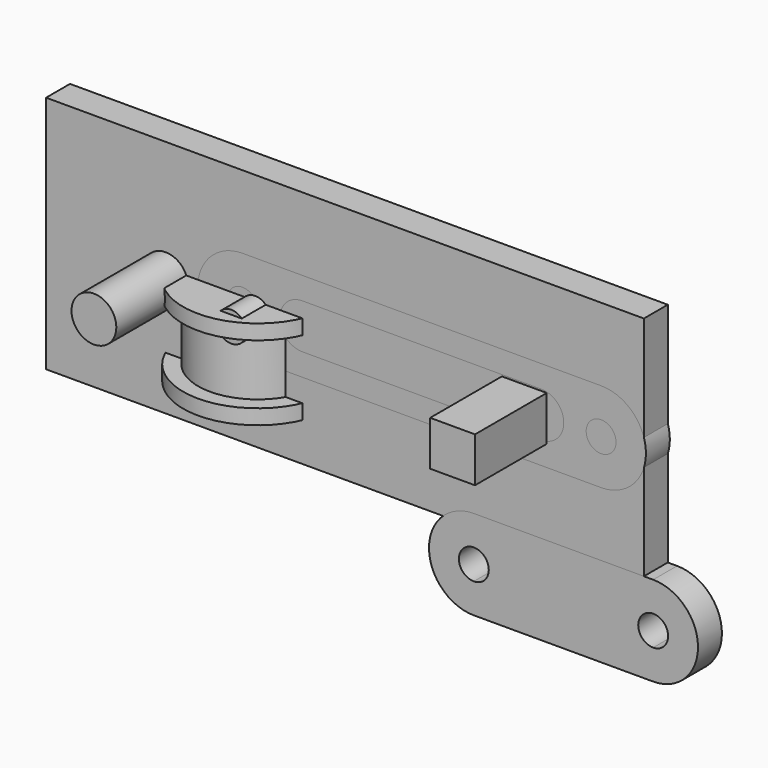
from build123d import *

# Parameters (mm, degrees)
F0_W      = 127
F0_H      = 50.8
F0_R      = 4.7625
F1_DEPTH  = 6.35
F2_DEPTH  = 25.4
F4_DEPTH  = 6.35
F6_DEPTH  = 6.35
F7_R      = 3.175
F8_DEPTH  = 12.7
F9_W      = 7.9375
F9_H      = 12.7
F11_R     = 3.175
F12_DEPTH = 6.35


with BuildPart() as f1:
    # F0 (on Front) → F1 (new body)
    with BuildSketch(Plane.XZ):
        with Locations((-22.645993565, 26.2049915612)):
            Rectangle(F0_W, F0_H)
        with Locations((-60.745993565, 26.2049915612)):
            Circle(F0_R, mode=Mode.SUBTRACT)
        Polygon((10.691506435, 21.4424915612), (10.691506435, 30.9674915612), (20.216506435, 30.9674915612), (20.216506435, 26.2049915612), (20.216506435, 21.4424915612), (15.454006435, 21.4424915612), align=None, mode=Mode.SUBTRACT)
    extrude(amount=F1_DEPTH)

    # F0 (on Front) → F2 (join)
    with BuildSketch(Plane.XZ):
        with Locations((-60.745993565, 26.2049915612)):
            Circle(F0_R)
        Polygon((20.216506435, 30.9674915612), (10.691506435, 30.9674915612), (10.691506435, 21.4424915612), (15.454006435, 21.4424915612), (20.216506435, 21.4424915612), (20.216506435, 26.2049915612), align=None)
    extrude(amount=F2_DEPTH)


with BuildPart() as f4:
    # F3 (on Front) → F4 (new body)
    with BuildSketch(Plane.XZ):
        with BuildLine():
            Line((4.727822268, -2.9557410955), (4.727822268, 3.3942589045))
            ThreePointArc((4.727822268, 3.3942589045), (-4.797177732, -6.1307410955), (4.727822268, -15.6557410955))
            Line((4.727822268, -15.6557410955), (4.727822268, -9.3057410955))
            ThreePointArc((4.727822268, -9.3057410955), (1.552822268, -6.1307410955), (4.727822268, -2.9557410955))
        make_face()
        with BuildLine():
            Line((42.827822268, 3.3942589045), (4.727822268, 3.3942589045))
            Line((4.727822268, 3.3942589045), (4.727822268, -2.9557410955))
            ThreePointArc((4.727822268, -2.9557410955), (6.9728862983, -3.8856770653), (7.902822268, -6.1307410955))
            ThreePointArc((7.902822268, -6.1307410955), (6.9728862983, -8.3758051258), (4.727822268, -9.3057410955))
            Line((4.727822268, -9.3057410955), (4.727822268, -15.6557410955))
            Line((4.727822268, -15.6557410955), (42.827822268, -15.6557410955))
            Line((42.827822268, -15.6557410955), (42.827822268, -9.3057410955))
            ThreePointArc((42.827822268, -9.3057410955), (39.652822268, -6.1307410955), (42.827822268, -2.9557410955))
            Line((42.827822268, -2.9557410955), (42.827822268, 3.3942589045))
        make_face()
        with BuildLine():
            ThreePointArc((42.827822268, -15.6557410955), (52.352822268, -6.1307410955), (42.827822268, 3.3942589045))
            Line((42.827822268, 3.3942589045), (42.827822268, -2.9557410955))
            ThreePointArc((42.827822268, -2.9557410955), (45.0728862983, -3.8856770653), (46.002822268, -6.1307410955))
            ThreePointArc((46.002822268, -6.1307410955), (45.0728862983, -8.3758051258), (42.827822268, -9.3057410955))
            Line((42.827822268, -9.3057410955), (42.827822268, -15.6557410955))
        make_face()
    extrude(amount=F4_DEPTH)


with BuildPart() as f6:
    # F5 (on Front) → F6 (new body)
    with BuildSketch(Plane.XZ):
        with BuildLine():
            Line((-44.4316556573, 29.722497952), (-44.4316556573, 36.072497952))
            ThreePointArc((-44.4316556573, 36.072497952), (-53.9566556573, 26.547497952), (-44.4316556573, 17.022497952))
            Line((-44.4316556573, 17.022497952), (-44.4316556573, 23.372497952))
            ThreePointArc((-44.4316556573, 23.372497952), (-47.6066556573, 26.547497952), (-44.4316556573, 29.722497952))
        make_face()
        with BuildLine():
            Line((31.7683443427, 36.072497952), (-44.4316556573, 36.072497952))
            Line((-44.4316556573, 36.072497952), (-44.4316556573, 29.722497952))
            ThreePointArc((-44.4316556573, 29.722497952), (-42.186591627, 28.7925619823), (-41.2566556573, 26.547497952))
            ThreePointArc((-41.2566556573, 26.547497952), (-42.186591627, 24.3024339217), (-44.4316556573, 23.372497952))
            Line((-44.4316556573, 23.372497952), (-44.4316556573, 17.022497952))
            Line((-44.4316556573, 17.022497952), (-6.3316556573, 17.022497952))
            Line((-6.3316556573, 17.022497952), (31.7683443427, 17.022497952))
            Line((31.7683443427, 17.022497952), (31.7683443427, 23.372497952))
            ThreePointArc((31.7683443427, 23.372497952), (28.5933443427, 26.547497952), (31.7683443427, 29.722497952))
            Line((31.7683443427, 29.722497952), (31.7683443427, 36.072497952))
        make_face()
        with BuildLine():
            ThreePointArc((-31.7316556573, 21.784997952), (-36.4941556573, 26.547497952), (-31.7316556573, 31.309997952))
            Line((-31.7316556573, 31.309997952), (19.0683443427, 31.309997952))
            ThreePointArc((19.0683443427, 31.309997952), (23.8308443427, 26.547497952), (19.0683443427, 21.784997952))
            Line((19.0683443427, 21.784997952), (-6.3316556573, 21.784997952))
            Line((-6.3316556573, 21.784997952), (-31.7316556573, 21.784997952))
        make_face(mode=Mode.SUBTRACT)
        with BuildLine():
            ThreePointArc((31.7683443427, 17.022497952), (41.2933443427, 26.547497952), (31.7683443427, 36.072497952))
            Line((31.7683443427, 36.072497952), (31.7683443427, 29.722497952))
            ThreePointArc((31.7683443427, 29.722497952), (34.013408373, 28.7925619823), (34.9433443427, 26.547497952))
            ThreePointArc((34.9433443427, 26.547497952), (34.013408373, 24.3024339217), (31.7683443427, 23.372497952))
            Line((31.7683443427, 23.372497952), (31.7683443427, 17.022497952))
        make_face()
    extrude(amount=F6_DEPTH)


with BuildPart() as f8:
    # F7 (on Front) → F8 (new body)
    with BuildSketch(Plane.XZ):
        with Locations((-41.7281500995, 25.8006639779)):
            Circle(F7_R)
    extrude(amount=F8_DEPTH)


with BuildPart() as f10:
    # F9 (on Front) → F10 (revolve)
    with BuildSketch(Plane.XZ):
        Polygon((-30.3646791726, 28.0442315072), (-41.4771791726, 28.0442315072), (-41.4771791726, 24.8692315072), (-33.5396791726, 24.8692315072), (-30.3646791726, 24.8692315072), align=None)
        with Locations((-37.5084291726, 18.5192315072)):
            Rectangle(F9_W, F9_H)
        Polygon((-33.5396791726, 12.1692315072), (-41.4771791726, 12.1692315072), (-41.4771791726, 8.9942315072), (-30.3646791726, 8.9942315072), (-30.3646791726, 12.1692315072), align=None)
    revolve(axis=Axis((-46.2396791726, 0, 18.5192315072), (0, 0, -1)))

    # F11 (on face) → F12 (join)
    with BuildSketch(Plane.XY.offset(28.0442315072)):
        with Locations((-36.7146791726, 0)):
            Circle(F11_R)
    extrude(amount=F12_DEPTH)


solid = Compound([f1.part, f4.part, f6.part, f8.part, f10.part])
